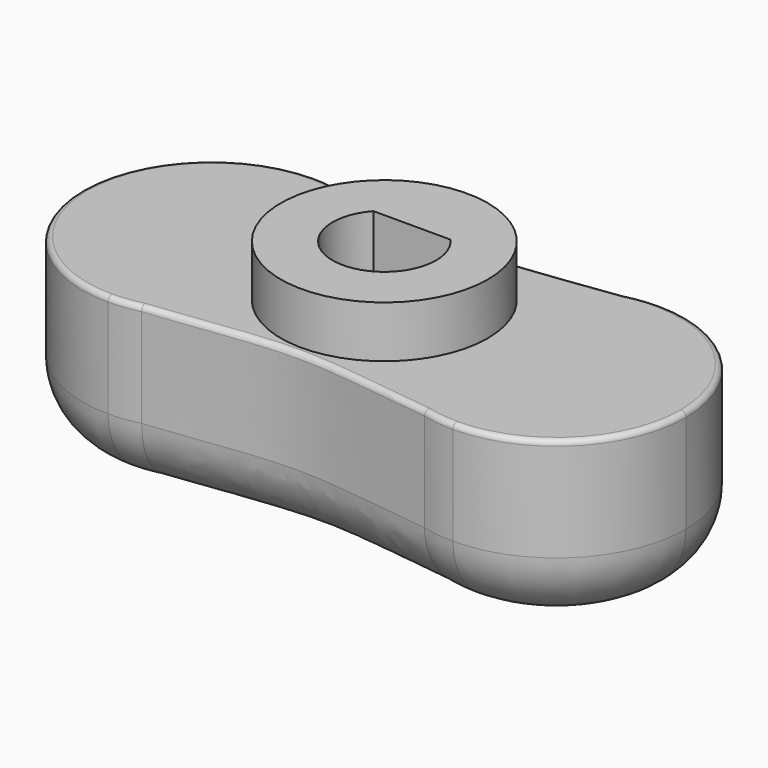
from build123d import *

# Parameters (mm, degrees)
F1_DEPTH = 10
F2_R     = 6
F3_DEPTH = 3
F5_DEPTH = 6
F6_R     = 0.3
F7_R     = 4


with BuildPart() as f1:
    # F0 (on Top) → F1 (new body)
    with BuildSketch(Plane.XY):
        with BuildLine():
            add(Edge.make_bspline(
                [(-62.732838, 46.778165), (-62.079037, 46.698432), (-61.471616, 46.623094), (-60.905515, 46.552152)],
                knots=[0, 0, 0, 0, 1.102453, 1.102453, 1.102453, 1.102453], degree=3))
            ThreePointArc((-62.732838, 46.778165), (-70.232838, 39.278165), (-62.732838, 31.778165))
            add(Edge.make_bspline(
                [(-62.732838, 31.778165), (-62.096927, 31.853706), (-61.504893, 31.925197), (-60.952079, 31.992638)],
                knots=[0, 0, 0, 0, 1.072287, 1.072287, 1.072287, 1.072287], degree=3))
            ThreePointArc((-60.952079, 31.992638), (-56.833444, 34.647057), (-55.232838, 39.278165))
            ThreePointArc((-55.232838, 39.278165), (-56.818663, 43.890381), (-60.905515, 46.552152))
        make_face()
        with BuildLine():
            ThreePointArc((-60.905515, 46.552152), (-61.812214, 46.721447), (-62.732838, 46.778165))
            add(Edge.make_bspline(
                [(-62.732838, 46.778165), (-62.079037, 46.698432), (-61.471616, 46.623094), (-60.905515, 46.552152)],
                knots=[0, 0, 0, 0, 1.102453, 1.102453, 1.102453, 1.102453], degree=3))
        make_face()
        with BuildLine():
            add(Edge.make_bspline(
                [(-62.732838, 31.778165), (-62.096927, 31.853706), (-61.504893, 31.925197), (-60.952079, 31.992638)],
                knots=[0, 0, 0, 0, 1.072287, 1.072287, 1.072287, 1.072287], degree=3))
            ThreePointArc((-62.732838, 31.778165), (-61.836024, 31.831976), (-60.952079, 31.992638))
        make_face()
        with BuildLine():
            add(Edge.make_bspline(
                [(-60.905515, 46.552152), (-51.802553, 45.411389), (-53.383665, 45.407059), (-44.61111, 46.539163)],
                knots=[1.102453, 1.102453, 1.102453, 1.102453, 18.830007, 18.830007, 18.830007, 18.830007], degree=3))
            ThreePointArc((-60.905515, 46.552152), (-56.818663, 43.890381), (-55.232838, 39.278165))
            ThreePointArc((-55.232838, 39.278165), (-56.833444, 34.647057), (-60.952079, 31.992638))
            add(Edge.make_bspline(
                [(-60.952079, 31.992638), (-51.78057, 33.111525), (-53.404426, 33.115633), (-44.563286, 32.004963)],
                knots=[1.072287, 1.072287, 1.072287, 1.072287, 18.862152, 18.862152, 18.862152, 18.862152], degree=3))
            ThreePointArc((-44.563286, 32.004963), (-50.232797, 39.253486), (-44.61111, 46.539163))
        make_face()
        with BuildLine():
            add(Edge.make_bspline(
                [(-44.61111, 46.539163), (-44.032134, 46.61388), (-43.408059, 46.693547), (-42.732838, 46.778165)],
                knots=[18.830007, 18.830007, 18.830007, 18.830007, 20, 20, 20, 20], degree=3))
            ThreePointArc((-44.61111, 46.539163), (-50.232797, 39.253486), (-44.563286, 32.004963))
            add(Edge.make_bspline(
                [(-44.563286, 32.004963), (-43.997803, 31.933924), (-43.389508, 31.858324), (-42.732838, 31.778165)],
                knots=[18.862152, 18.862152, 18.862152, 18.862152, 20, 20, 20, 20], degree=3))
            ThreePointArc((-42.732838, 31.778165), (-37.429537, 33.974864), (-35.232838, 39.278165))
            ThreePointArc((-35.232838, 39.278165), (-37.429537, 44.581465), (-42.732838, 46.778165))
        make_face()
        with BuildLine():
            ThreePointArc((-42.732838, 46.778165), (-43.679547, 46.718174), (-44.61111, 46.539163))
            add(Edge.make_bspline(
                [(-44.61111, 46.539163), (-44.032134, 46.61388), (-43.408059, 46.693547), (-42.732838, 46.778165)],
                knots=[18.830007, 18.830007, 18.830007, 18.830007, 20, 20, 20, 20], degree=3))
        make_face()
        with BuildLine():
            add(Edge.make_bspline(
                [(-44.563286, 32.004963), (-43.997803, 31.933924), (-43.389508, 31.858324), (-42.732838, 31.778165)],
                knots=[18.862152, 18.862152, 18.862152, 18.862152, 20, 20, 20, 20], degree=3))
            ThreePointArc((-44.563286, 32.004963), (-43.65506, 31.83508), (-42.732838, 31.778165))
        make_face()
    extrude(amount=F1_DEPTH)

    # F2 (on face) → F3 (join)
    with BuildSketch(Plane.XY.offset(10)):
        with Locations((-52.7328, 39.302151)):
            Circle(F2_R)
    extrude(amount=F3_DEPTH)

    # F4 (on face) → F5 (cut)
    with BuildSketch(Plane.XY.offset(13)):
        with BuildLine():
            ThreePointArc((-54.968868, 41.302151), (-53.803266, 36.499634), (-49.7328, 39.302151))
            ThreePointArc((-49.7328, 39.302151), (-49.930283, 40.372617), (-50.496732, 41.302151))
            Line((-50.496732, 41.302151), (-54.968868, 41.302151))
        make_face()
    extrude(amount=-F5_DEPTH, mode=Mode.SUBTRACT)

    # F6
    f6_edges = [f1.edges().sort_by_distance(p)[0] for p in [
        (-70.17612, 40.198788, 10),
        (-52.758079, 45.693906, 10),
        (-35.232879, 39.302843, 10),
        (-52.757446, 32.834331, 10),
    ]]
    fillet(f6_edges, radius=F6_R)

    # F7
    f7_edges = [f1.edges().sort_by_distance(p)[0] for p in [
        (-70.17612, 40.198788, 0),
        (-52.758079, 45.693906, 0),
        (-35.232879, 39.302843, 0),
        (-52.757446, 32.834331, 0),
        (-61.836024, 31.831976, 0),
    ]]
    fillet(f7_edges, radius=F7_R)


solid = f1.part
